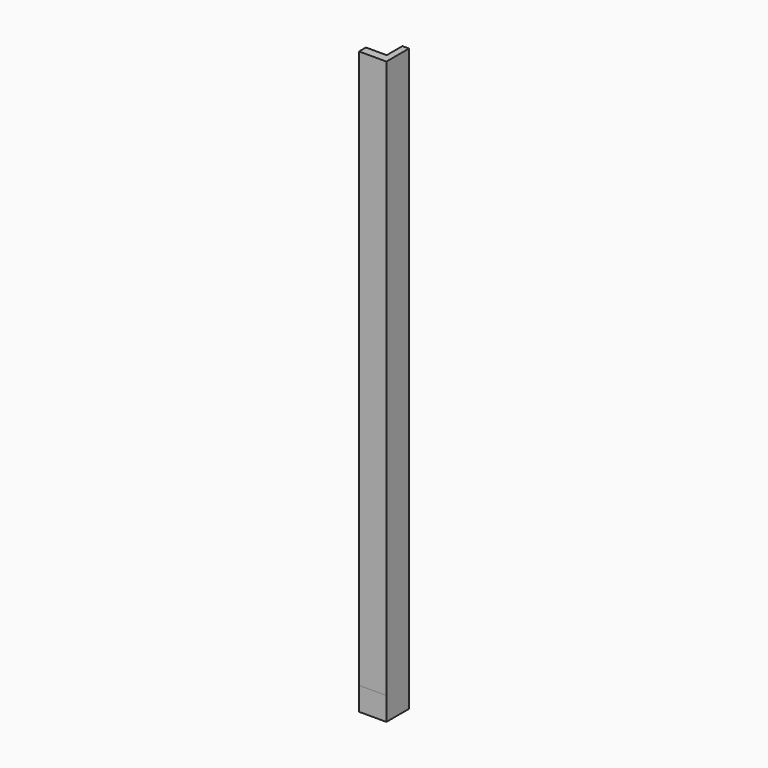
from build123d import *

# Parameters (mm, degrees)
F1_DEPTH = 25.4
F2_DEPTH = 609.6


with BuildPart() as f1:
    # F0 (on Top) → F1 (new body)
    with BuildSketch(Plane.XY):
        Polygon((22.752739, 0), (0, 0), (0, -9.396456), (22.752739, -9.396456), (29.938795, -9.396456), (29.938795, 0), (29.938795, 21.446703), (22.752739, 21.446703), align=None)
    extrude(amount=F1_DEPTH)

    # F1_face (on face) → F2 (join)
    with BuildSketch(Plane(origin=(18.995925, 0.760052, 25.4), x_dir=(1, 0, 0), z_dir=(0, 0, 1))):
        Polygon((3.756814, -0.760052), (-18.995925, -0.760052), (-18.995925, -10.156509), (10.94287, -10.156509), (10.94287, 20.686651), (3.756814, 20.686651), align=None)
    extrude(amount=F2_DEPTH)


solid = f1.part
